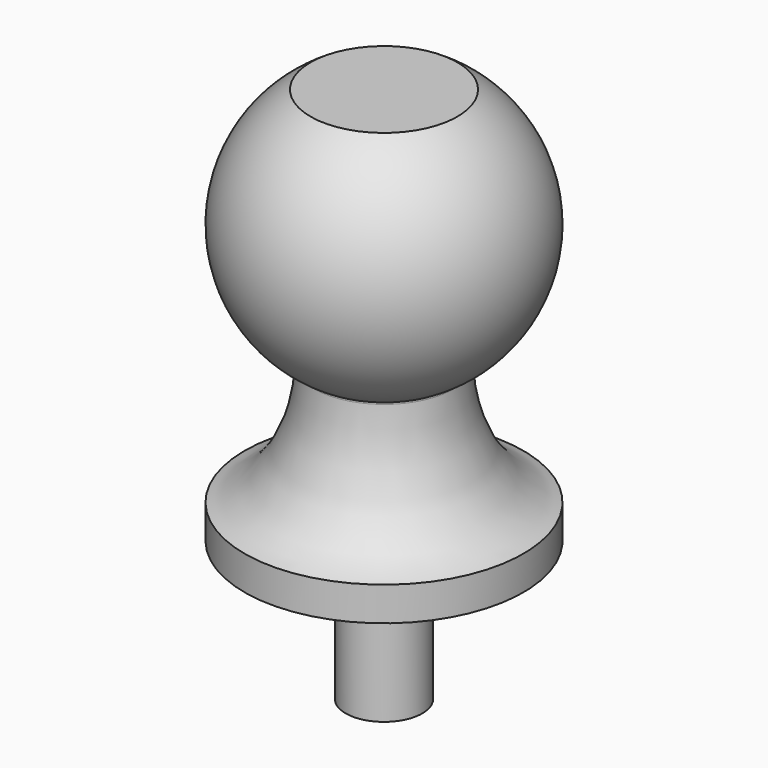
from build123d import *

# Parameters (mm, degrees)
F0_W = 0.275
F0_H = 1


with BuildPart() as f1:
    # F0 (on Front) → F1 (revolve)
    with BuildSketch(Plane.XZ):
        with BuildLine():
            ThreePointArc((0, -1), (-0.258819, -0.965926), (-0.5, -0.866025))
            Line((-0.5, -0.866025), (-0.5, -0.878777))
            add(Edge.make_bspline(
                [(-1, -1.755948), (-0.676316, -1.667412), (-0.50217, -1.217269), (-0.5, -0.878777)],
                knots=[0, 0, 0, 0, 1.008054, 1.008054, 1.008054, 1.008054], degree=3))
            Line((-1, -1.755948), (-1, -2))
            Line((-1, -2), (-0.275, -2))
            Line((-0.275, -2), (0, -2))
            Line((0, -2), (0, -1))
        make_face()
        with BuildLine():
            Line((0, 0.85), (-0.526783, 0.85))
            ThreePointArc((-0.526783, 0.85), (-0.999878, -0.015605), (-0.5, -0.866025))
            ThreePointArc((-0.5, -0.866025), (-0.258819, -0.965926), (0, -1))
            Line((0, -1), (0, 0.85))
        make_face()
        with Locations((-0.1375, -2.5)):
            Rectangle(F0_W, F0_H)
    revolve(axis=Axis((0, 0, -1.5), (0, 0, -1)))


solid = f1.part
